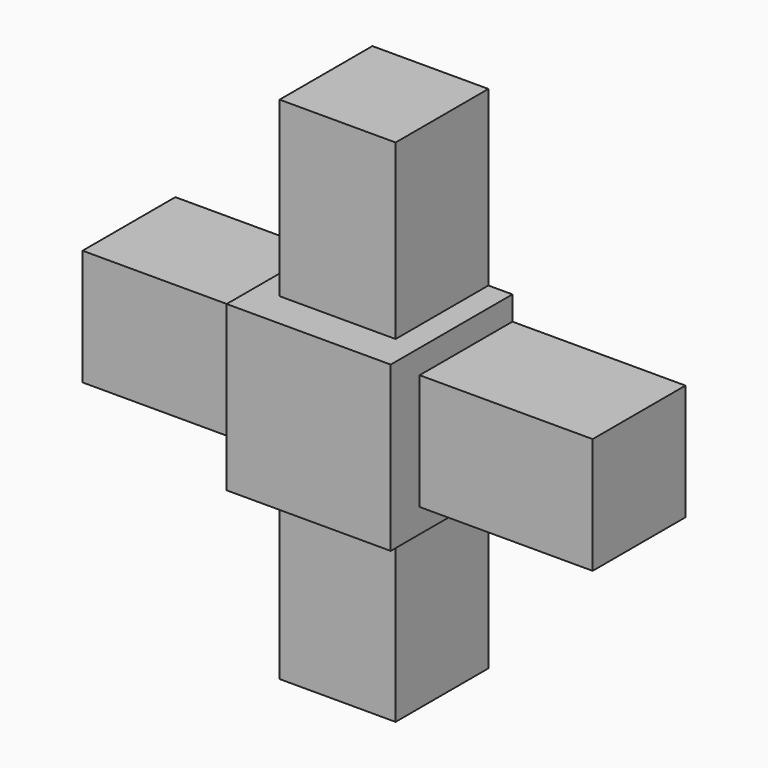
from build123d import *

# Parameters (mm, degrees)
F0_W     = 1.07834
F0_H     = 1.07834
F1_DEPTH = 1
F2_W     = 0.7625
F2_H     = 0.7625
F3_DEPTH = 1.1375
F4_W     = 0.7625
F4_H     = 0.7625
F5_DEPTH = 1.1375
F6_W     = 0.7625
F6_H     = 0.7625
F7_DEPTH = 1.1375
F8_W     = 0.7625
F8_H     = 0.7625
F9_DEPTH = 1.1375


with BuildPart() as f1:
    # F0 (on Front) → F1 (new body)
    with BuildSketch(Plane.XZ):
        Rectangle(F0_W, F0_H)
    extrude(amount=F1_DEPTH)

    # F2 (on face) → F3 (join)
    with BuildSketch(Plane(origin=(0, 0, -0.53917), x_dir=(1, 0, 0), z_dir=(0, 0, -1))):
        with Locations((0, 0.38125)):
            Rectangle(F2_W, F2_H)
    extrude(amount=F3_DEPTH)

    # F4 (on face) → F5 (join)
    with BuildSketch(Plane(origin=(-0.53917, 0, 0), x_dir=(0, -1, 0), z_dir=(-1, 0, 0))):
        with Locations((0.38125, 0)):
            Rectangle(F4_W, F4_H)
    extrude(amount=F5_DEPTH)

    # F6 (on face) → F7 (join)
    with BuildSketch(Plane.XY.offset(0.53917)):
        with Locations((0, -0.38125)):
            Rectangle(F6_W, F6_H)
    extrude(amount=F7_DEPTH)

    # F8 (on face) → F9 (join)
    with BuildSketch(Plane.YZ.offset(0.53917)):
        with Locations((-0.38125, 0)):
            Rectangle(F8_W, F8_H)
    extrude(amount=F9_DEPTH)


solid = f1.part
